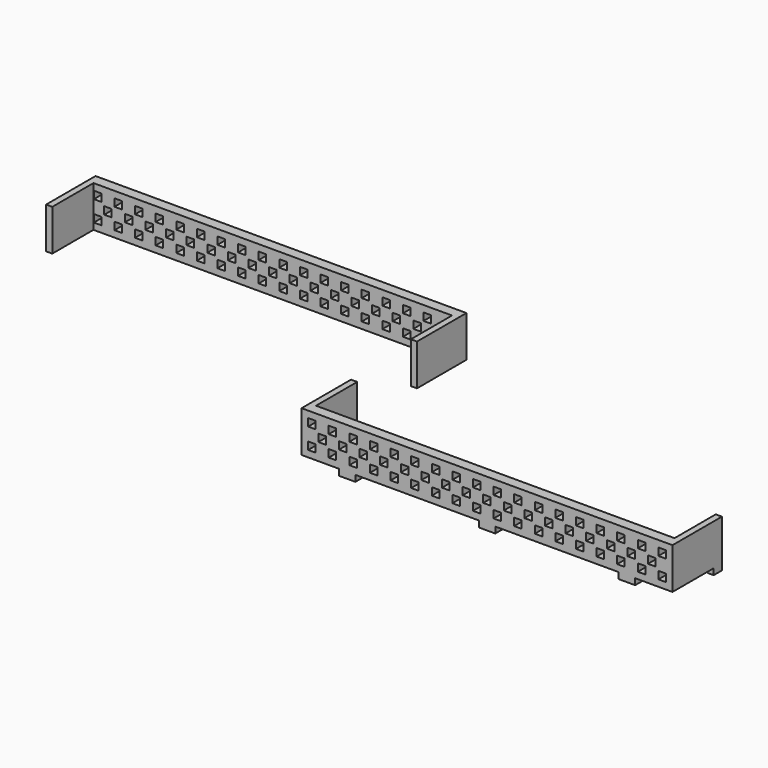
from build123d import *

# Parameters (mm, degrees)
F0_W     = 4.6228
F0_H     = 4.6228
F1_DEPTH = 6.35
F2_W     = 31.75
F2_H     = 25.4
F3_DEPTH = 3.81
F4_W     = 31.75
F4_H     = 25.4
F5_DEPTH = 3.81
F7_ANGLE = 180
F8_W     = 10.16
F8_H     = 6.35
F8_W_2   = 3.81
F9_DEPTH = 3.81


with BuildPart() as f1:
    # F0 (on Front) → F1 (new body)
    with BuildSketch(Plane.XZ):
        Polygon((-103.0509280361, -13.536190363), (-99.0123280361, -13.536190363), (125.5490719639, -13.536190363), (125.5490719639, 7.825209637), (125.5490719639, 11.863809637), (121.5104719639, 11.863809637), (-103.0509280361, 11.863809637), (-103.0509280361, -9.497590363), align=None)
        Polygon((-94.3895280361, -4.874790363), (-94.3895280361, -7.186190363), (-94.3895280361, -9.497590363), (-99.0123280361, -9.497590363), (-99.0123280361, -4.874790363), (-96.7009280361, -4.874790363), align=None, mode=Mode.SUBTRACT)
        Polygon((-86.3123280361, -9.497590363), (-86.3123280361, -7.186190363), (-86.3123280361, -4.874790363), (-81.6895280361, -4.874790363), (-81.6895280361, -7.186190363), (-81.6895280361, -9.497590363), align=None, mode=Mode.SUBTRACT)
        Polygon((-73.6123280361, -9.497590363), (-73.6123280361, -7.186190363), (-73.6123280361, -4.874790363), (-68.9895280361, -4.874790363), (-68.9895280361, -7.186190363), (-68.9895280361, -9.497590363), align=None, mode=Mode.SUBTRACT)
        Polygon((-60.9123280361, -9.497590363), (-60.9123280361, -7.186190363), (-60.9123280361, -4.874790363), (-56.2895280361, -4.874790363), (-56.2895280361, -7.186190363), (-56.2895280361, -9.497590363), align=None, mode=Mode.SUBTRACT)
        Polygon((-48.2123280361, -9.497590363), (-48.2123280361, -7.186190363), (-48.2123280361, -4.874790363), (-43.5895280361, -4.874790363), (-43.5895280361, -7.186190363), (-43.5895280361, -9.497590363), align=None, mode=Mode.SUBTRACT)
        Polygon((-35.5123280361, -9.497590363), (-35.5123280361, -7.186190363), (-35.5123280361, -4.874790363), (-30.8895280361, -4.874790363), (-30.8895280361, -7.186190363), (-30.8895280361, -9.497590363), align=None, mode=Mode.SUBTRACT)
        Polygon((-22.8123280361, -9.497590363), (-22.8123280361, -7.186190363), (-22.8123280361, -4.874790363), (-18.1895280361, -4.874790363), (-18.1895280361, -7.186190363), (-18.1895280361, -9.497590363), align=None, mode=Mode.SUBTRACT)
        Polygon((-10.1123280361, -9.497590363), (-10.1123280361, -7.186190363), (-10.1123280361, -4.874790363), (-5.4895280361, -4.874790363), (-5.4895280361, -7.186190363), (-5.4895280361, -9.497590363), align=None, mode=Mode.SUBTRACT)
        Polygon((2.5876719639, -9.497590363), (2.5876719639, -7.186190363), (2.5876719639, -4.874790363), (7.2104719639, -4.874790363), (7.2104719639, -7.186190363), (7.2104719639, -9.497590363), align=None, mode=Mode.SUBTRACT)
        Polygon((15.2876719639, -9.497590363), (15.2876719639, -7.186190363), (15.2876719639, -4.874790363), (19.9104719639, -4.874790363), (19.9104719639, -7.186190363), (19.9104719639, -9.497590363), align=None, mode=Mode.SUBTRACT)
        Polygon((27.9876719639, -9.497590363), (27.9876719639, -7.186190363), (27.9876719639, -4.874790363), (32.6104719639, -4.874790363), (32.6104719639, -7.186190363), (32.6104719639, -9.497590363), align=None, mode=Mode.SUBTRACT)
        Polygon((40.6876719639, -9.497590363), (40.6876719639, -7.186190363), (40.6876719639, -4.874790363), (45.3104719639, -4.874790363), (45.3104719639, -7.186190363), (45.3104719639, -9.497590363), align=None, mode=Mode.SUBTRACT)
        Polygon((53.3876719639, -9.497590363), (53.3876719639, -7.186190363), (53.3876719639, -4.874790363), (58.0104719639, -4.874790363), (58.0104719639, -7.186190363), (58.0104719639, -9.497590363), align=None, mode=Mode.SUBTRACT)
        Polygon((66.0876719639, -9.497590363), (66.0876719639, -7.186190363), (66.0876719639, -4.874790363), (70.7104719639, -4.874790363), (70.7104719639, -7.186190363), (70.7104719639, -9.497590363), align=None, mode=Mode.SUBTRACT)
        Polygon((78.7876719639, -9.497590363), (78.7876719639, -7.186190363), (78.7876719639, -4.874790363), (83.4104719639, -4.874790363), (83.4104719639, -7.186190363), (83.4104719639, -9.497590363), align=None, mode=Mode.SUBTRACT)
        Polygon((91.4876719639, -9.497590363), (91.4876719639, -7.186190363), (91.4876719639, -4.874790363), (96.1104719639, -4.874790363), (96.1104719639, -9.497590363), align=None, mode=Mode.SUBTRACT)
        with Locations((106.4990719639, -7.186190363)):
            Rectangle(F0_W, F0_H, mode=Mode.SUBTRACT)
        with Locations((119.1990719639, -7.186190363)):
            Rectangle(F0_W, F0_H, mode=Mode.SUBTRACT)
        Polygon((-92.7237735167, -3.147590363), (-92.7237735167, -0.836190363), (-92.7237735167, 1.475209637), (-88.1009735167, 1.475209637), (-88.1009735167, -0.836190363), (-88.1009735167, -3.147590363), align=None, mode=Mode.SUBTRACT)
        with Locations((-77.7123735167, -0.836190363)):
            Rectangle(F0_W, F0_H, mode=Mode.SUBTRACT)
        with Locations((-65.0123735167, -0.836190363)):
            Rectangle(F0_W, F0_H, mode=Mode.SUBTRACT)
        with Locations((-52.3123735167, -0.836190363)):
            Rectangle(F0_W, F0_H, mode=Mode.SUBTRACT)
        with Locations((-39.6123735167, -0.836190363)):
            Rectangle(F0_W, F0_H, mode=Mode.SUBTRACT)
        with Locations((-26.9123735167, -0.836190363)):
            Rectangle(F0_W, F0_H, mode=Mode.SUBTRACT)
        with Locations((-14.2123735167, -0.836190363)):
            Rectangle(F0_W, F0_H, mode=Mode.SUBTRACT)
        with Locations((-1.5123735167, -0.836190363)):
            Rectangle(F0_W, F0_H, mode=Mode.SUBTRACT)
        with Locations((11.1876264833, -0.836190363)):
            Rectangle(F0_W, F0_H, mode=Mode.SUBTRACT)
        Polygon((-94.3895280361, 3.202409637), (-96.7009280361, 3.202409637), (-99.0123280361, 3.202409637), (-99.0123280361, 7.825209637), (-94.3895280361, 7.825209637), align=None, mode=Mode.SUBTRACT)
        Polygon((-81.6895280361, 7.825209637), (-81.6895280361, 5.513809637), (-81.6895280361, 3.202409637), (-86.3123280361, 3.202409637), (-86.3123280361, 7.825209637), align=None, mode=Mode.SUBTRACT)
        Polygon((-73.6123280361, 3.202409637), (-73.6123280361, 5.513809637), (-73.6123280361, 7.825209637), (-68.9895280361, 7.825209637), (-68.9895280361, 5.513809637), (-68.9895280361, 3.202409637), align=None, mode=Mode.SUBTRACT)
        Polygon((-60.9123280361, 3.202409637), (-60.9123280361, 5.513809637), (-60.9123280361, 7.825209637), (-56.2895280361, 7.825209637), (-56.2895280361, 5.513809637), (-56.2895280361, 3.202409637), align=None, mode=Mode.SUBTRACT)
        Polygon((-48.2123280361, 3.202409637), (-48.2123280361, 5.513809637), (-48.2123280361, 7.825209637), (-43.5895280361, 7.825209637), (-43.5895280361, 5.513809637), (-43.5895280361, 3.202409637), align=None, mode=Mode.SUBTRACT)
        Polygon((-35.5123280361, 3.202409637), (-35.5123280361, 5.513809637), (-35.5123280361, 7.825209637), (-30.8895280361, 7.825209637), (-30.8895280361, 5.513809637), (-30.8895280361, 3.202409637), align=None, mode=Mode.SUBTRACT)
        Polygon((-22.8123280361, 3.202409637), (-22.8123280361, 5.513809637), (-22.8123280361, 7.825209637), (-18.1895280361, 7.825209637), (-18.1895280361, 5.513809637), (-18.1895280361, 3.202409637), align=None, mode=Mode.SUBTRACT)
        Polygon((-10.1123280361, 3.202409637), (-10.1123280361, 5.513809637), (-10.1123280361, 7.825209637), (-5.4895280361, 7.825209637), (-5.4895280361, 5.513809637), (-5.4895280361, 3.202409637), align=None, mode=Mode.SUBTRACT)
        Polygon((7.2104719639, 7.825209637), (7.2104719639, 5.513809637), (7.2104719639, 3.202409637), (2.5876719639, 3.202409637), (2.5876719639, 5.513809637), (2.5876719639, 7.825209637), align=None, mode=Mode.SUBTRACT)
        with Locations((23.8876264833, -0.836190363)):
            Rectangle(F0_W, F0_H, mode=Mode.SUBTRACT)
        with Locations((36.5876264833, -0.836190363)):
            Rectangle(F0_W, F0_H, mode=Mode.SUBTRACT)
        with Locations((49.2876264833, -0.836190363)):
            Rectangle(F0_W, F0_H, mode=Mode.SUBTRACT)
        with Locations((61.9876264833, -0.836190363)):
            Rectangle(F0_W, F0_H, mode=Mode.SUBTRACT)
        with Locations((74.6876264833, -0.836190363)):
            Rectangle(F0_W, F0_H, mode=Mode.SUBTRACT)
        with Locations((87.3876264833, -0.836190363)):
            Rectangle(F0_W, F0_H, mode=Mode.SUBTRACT)
        with Locations((100.0876264833, -0.836190363)):
            Rectangle(F0_W, F0_H, mode=Mode.SUBTRACT)
        with Locations((112.7876264833, -0.836190363)):
            Rectangle(F0_W, F0_H, mode=Mode.SUBTRACT)
        Polygon((19.9104719639, 7.825209637), (19.9104719639, 5.513809637), (19.9104719639, 3.202409637), (15.2876719639, 3.202409637), (15.2876719639, 5.513809637), (15.2876719639, 7.825209637), align=None, mode=Mode.SUBTRACT)
        Polygon((32.6104719639, 7.825209637), (32.6104719639, 5.513809637), (32.6104719639, 3.202409637), (27.9876719639, 3.202409637), (27.9876719639, 5.513809637), (27.9876719639, 7.825209637), align=None, mode=Mode.SUBTRACT)
        Polygon((45.3104719639, 7.825209637), (45.3104719639, 5.513809637), (45.3104719639, 3.202409637), (40.6876719639, 3.202409637), (40.6876719639, 5.513809637), (40.6876719639, 7.825209637), align=None, mode=Mode.SUBTRACT)
        Polygon((58.0104719639, 7.825209637), (58.0104719639, 5.513809637), (58.0104719639, 3.202409637), (53.3876719639, 3.202409637), (53.3876719639, 5.513809637), (53.3876719639, 7.825209637), align=None, mode=Mode.SUBTRACT)
        Polygon((66.0876719639, 3.202409637), (66.0876719639, 5.513809637), (66.0876719639, 7.825209637), (70.7104719639, 7.825209637), (70.7104719639, 5.513809637), (70.7104719639, 3.202409637), align=None, mode=Mode.SUBTRACT)
        Polygon((78.7876719639, 3.202409637), (78.7876719639, 5.513809637), (78.7876719639, 7.825209637), (83.4104719639, 7.825209637), (83.4104719639, 5.513809637), (83.4104719639, 3.202409637), align=None, mode=Mode.SUBTRACT)
        Polygon((91.4876719639, 3.202409637), (91.4876719639, 5.513809637), (91.4876719639, 7.825209637), (96.1104719639, 7.825209637), (96.1104719639, 3.202409637), align=None, mode=Mode.SUBTRACT)
        with Locations((106.4990719639, 5.513809637)):
            Rectangle(F0_W, F0_H, mode=Mode.SUBTRACT)
        with Locations((119.1990719639, 5.513809637)):
            Rectangle(F0_W, F0_H, mode=Mode.SUBTRACT)
    extrude(amount=F1_DEPTH)

    # F2 (on face) → F3 (join)
    with BuildSketch(Plane(origin=(-103.0509280361, 0, 0), x_dir=(0, -1, 0), z_dir=(-1, 0, 0))):
        with Locations((-15.875, -0.836190363)):
            Rectangle(F2_W, F2_H)
    extrude(amount=-F3_DEPTH)

    # F4 (on face) → F5 (join)
    with BuildSketch(Plane.YZ.offset(125.5490719639)):
        with Locations((15.875, -0.836190363)):
            Rectangle(F4_W, F4_H)
    extrude(amount=-F5_DEPTH)


with BuildPart() as f6_1:
    # F6: copy of F1
    add(f1.part.moved(Location((0, 127, 0))))


with BuildPart() as f6_1_1:
    # F7: moved
    add(f6_1.part.rotate(Axis((-103.0509280361, 120.65, -0.836190363), (0, 0, -1)), F7_ANGLE))


with BuildPart() as f1_1:
    add(f1.part)

    # F8 (on face) → F9 (join)
    with BuildSketch(Plane(origin=(0, 0, -13.536190363), x_dir=(1, 0, 0), z_dir=(0, 0, -1))):
        with Locations((-74.9764587116, 3.175)):
            Rectangle(F8_W, F8_H)
        with Locations((-101.1459280361, -28.575)):
            Rectangle(F8_W_2, F8_H)
        Polygon((6.1690719639, 0), (11.2490719639, 0), (16.3290719639, 0), (16.3290719639, 6.35), (11.2490719639, 6.35), (6.1690719639, 6.35), align=None)
        with Locations((97.4746026394, 3.175)):
            Rectangle(F8_W, F8_H)
        with Locations((123.6440719639, -28.575)):
            Rectangle(F8_W_2, F8_H)
    extrude(amount=F9_DEPTH)


solid = Compound([f6_1_1.part, f1_1.part])
